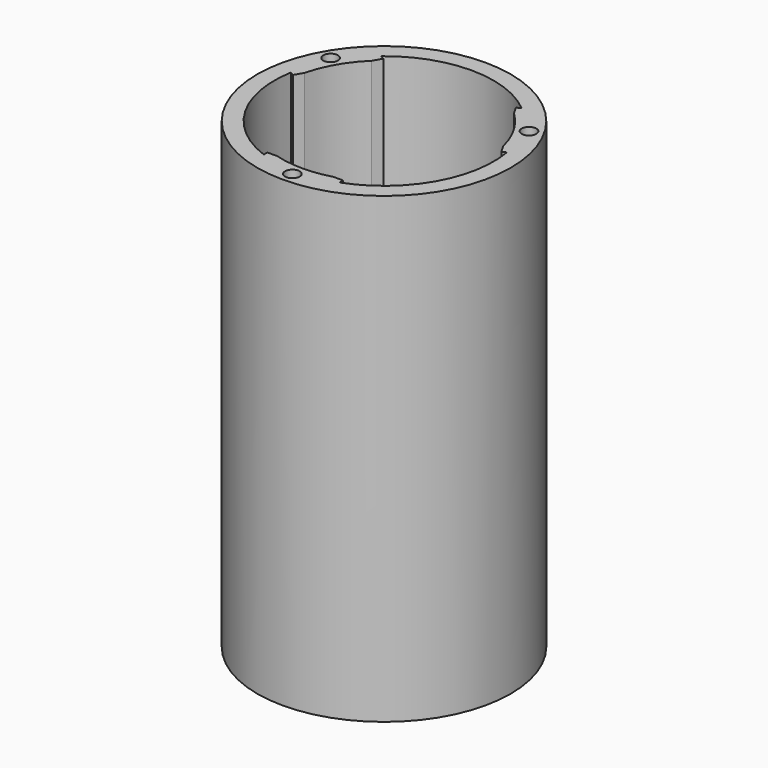
from build123d import *

# Parameters (mm, degrees)
F0_R     = 26
F0_R_2   = 1.5
F1_DEPTH = 95


with BuildPart() as f1:
    # F0 (on Top) → F1 (new body)
    with BuildSketch(Plane.XY):
        Circle(F0_R)
        with Locations((0, -23.5)):
            Circle(F0_R_2, mode=Mode.SUBTRACT)
        with Locations((-20.3515969889, 11.75)):
            Circle(F0_R_2, mode=Mode.SUBTRACT)
        with BuildLine():
            ThreePointArc((22.1726827981, 3.8238903663), (19.4855715851, -11.25), (7.7747552005, -21.1140517564))
            Line((7.7747552005, -21.1140517564), (7.7747552005, -20.1896557547))
            Line((7.7747552005, -20.1896557547), (5.7773523787, -20.1896557547))
            ThreePointArc((5.7773523787, -20.1896557547), (2.9169529609, -20.7964272274), (0, -21))
            ThreePointArc((0, -21), (-2.9169529609, -20.7964272274), (-5.7773523787, -20.1896557547))
            Line((-5.7773523787, -20.1896557547), (-7.7747552005, -20.1896557547))
            Line((-7.7747552005, -20.1896557547), (-7.7747552005, -21.1140517564))
            ThreePointArc((-7.7747552005, -21.1140517564), (-19.4855715851, -11.25), (-22.1726827981, 3.8238903663))
            Line((-22.1726827981, 3.8238903663), (-21.3721323775, 3.3616923655))
            Line((-21.3721323775, 3.3616923655), (-20.3734309666, 5.0914939507))
            ThreePointArc((-20.3734309666, 5.0914939507), (-18.1896766972, 10.5018147376), (-14.5960785878, 15.0981618039))
            Line((-14.5960785878, 15.0981618039), (-13.5973771769, 16.8279633892))
            Line((-13.5973771769, 16.8279633892), (-14.3979275976, 17.2901613901))
            ThreePointArc((-14.3979275976, 17.2901613901), (0, 22.5), (14.3979275976, 17.2901613901))
            Line((14.3979275976, 17.2901613901), (13.5973771769, 16.8279633892))
            Line((13.5973771769, 16.8279633892), (14.5960785878, 15.0981618039))
            ThreePointArc((14.5960785878, 15.0981618039), (18.2034997005, 10.5097954523), (20.3734309666, 5.0914939507))
            Line((20.3734309666, 5.0914939507), (21.3721323775, 3.3616923655))
            Line((21.3721323775, 3.3616923655), (22.1726827981, 3.8238903663))
        make_face(mode=Mode.SUBTRACT)
        with Locations((20.3515969889, 11.75)):
            Circle(F0_R_2, mode=Mode.SUBTRACT)
    extrude(amount=F1_DEPTH)


solid = f1.part
